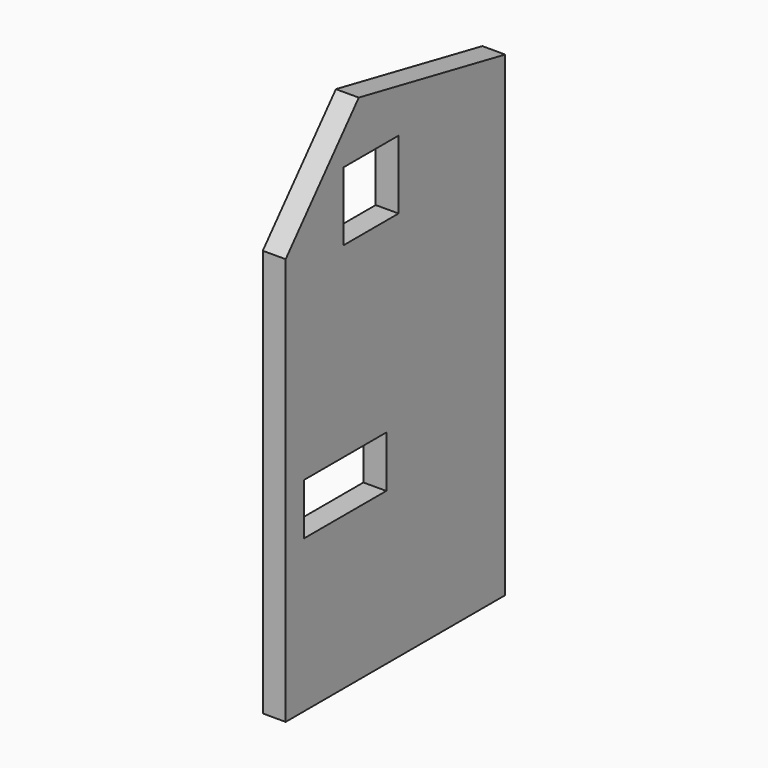
from build123d import *

# Parameters (mm, degrees)
F0_W     = 2438.4
F0_H     = 4707.636
F1_DEPTH = 203.2
F3_ANGLE = 180
F5_DEPTH = 203.2
F6_W     = 914.4
F6_H     = 457.2
F7_DEPTH = 203.2
F8_W     = 304.8
F8_H     = 609.6
F9_DEPTH = 203.2


with BuildPart() as f1:
    # F0 (on Right) → F1 (new body)
    with BuildSketch(Plane.YZ):
        Rectangle(F0_W, F0_H)
    extrude(amount=F1_DEPTH)


with BuildPart() as f1_1:
    # F3: moved
    add(f1.part.rotate(Axis((0, 0, -18.999701), (0, 0, -1)), F3_ANGLE))

    # F4 (on face) → F5 (cut)
    with BuildSketch(Plane.YZ):
        Polygon((-1219.2, 1265.682), (-407.322697, 2199.64), (1219.2, 1875.282), (1219.2, 2353.818), (-1219.2, 2353.818), align=None)
    extrude(amount=-F5_DEPTH, mode=Mode.SUBTRACT)

    # F6 (on face) → F7 (cut)
    with BuildSketch(Plane.YZ):
        with Locations((-558.8, -772.668)):
            Rectangle(F6_W, F6_H)
    extrude(amount=-F7_DEPTH, mode=Mode.SUBTRACT)

    # F8 (on face) → F9 (cut)
    with BuildSketch(Plane.YZ):
        with Locations((-422.400398, 1418.082)):
            Rectangle(F8_W, F8_H)
        with Locations((-117.600398, 1418.082)):
            Rectangle(F8_W, F8_H)
    extrude(amount=-F9_DEPTH, mode=Mode.SUBTRACT)


solid = f1_1.part
